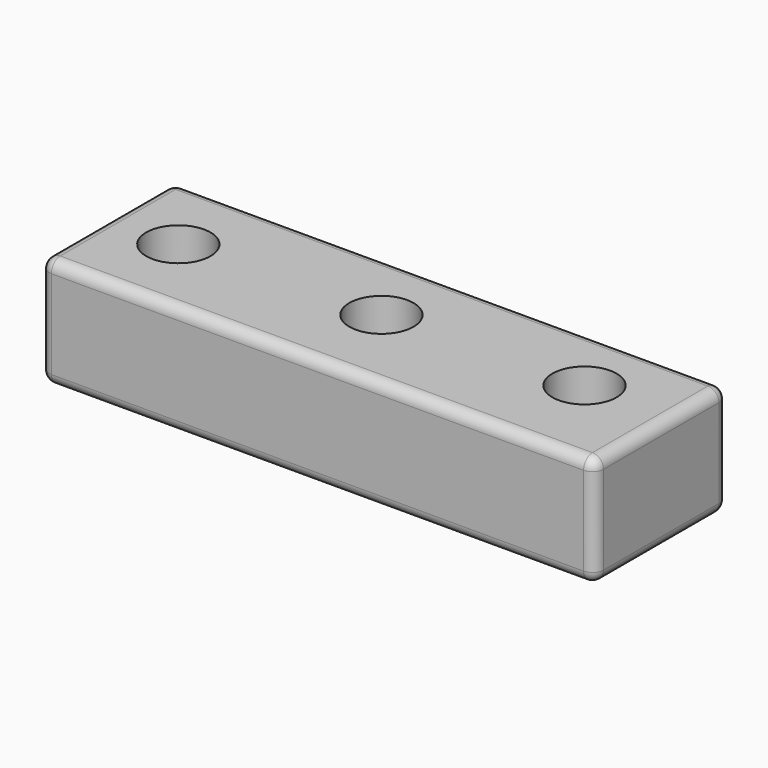
from build123d import *

# Parameters (mm, degrees)
F0_W     = 250
F0_H     = 75
F1_DEPTH = 25
F2_R     = 5
F4_D     = 29
F5_D     = 29
F6_D     = 29


with BuildPart() as f1:
    # F0 (on Top) → F1 (new body, symmetric)
    with BuildSketch(Plane.XY):
        with Locations((-125, 37.5)):
            Rectangle(F0_W, F0_H)
    extrude(amount=F1_DEPTH, both=True)

    # F2
    f2_edges = [f1.edges().sort_by_distance(p)[0] for p in [
        (0, 37.5, 25),
        (0, 0, 0),
        (0, 37.5, -25),
        (0, 75, 0),
        (-125, 0, -25),
        (-125, 0, 25),
        (-250, 0, 0),
        (-250, 37.5, 25),
        (-250, 75, 0),
        (-250, 37.5, -25),
        (-125, 75, -25),
        (-125, 75, 25),
    ]]
    fillet(f2_edges, radius=F2_R)

    # F4 (through all)
    with Locations(Plane.XY.offset(25)):
        with Locations((-128.644977, 40.611042)):
            Hole(F4_D / 2)

    # F5 (through all)
    with Locations(Plane.XY.offset(25)):
        with Locations((-39.162696, 43.24426)):
            Hole(F5_D / 2)

    # F6 (through all)
    with Locations(Plane.XY.offset(25)):
        with Locations((-218.127259, 37.977825)):
            Hole(F6_D / 2)


solid = f1.part
